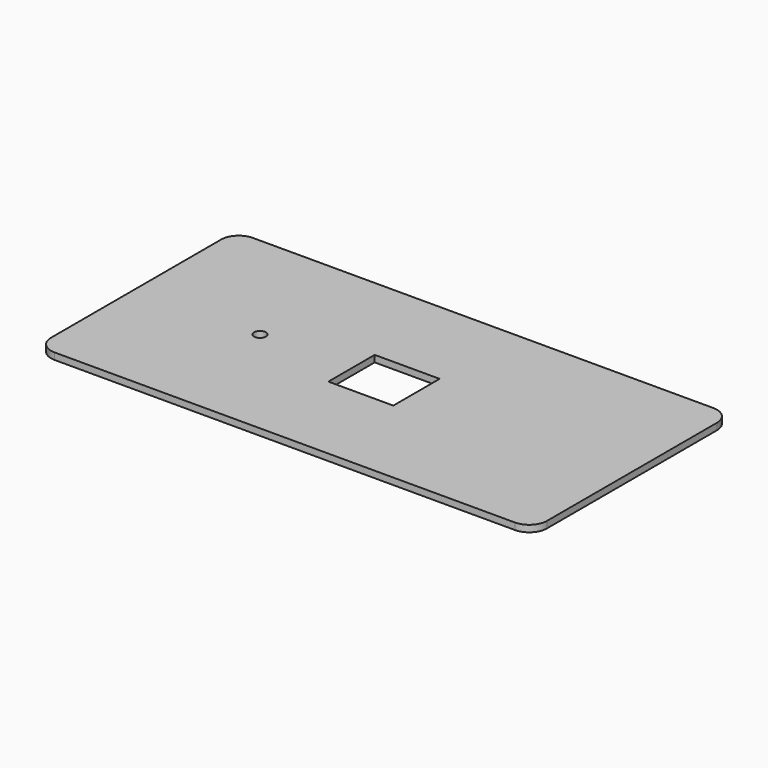
from build123d import *

# Parameters (mm, degrees)
F0_W     = 279.4
F0_H     = 249.174
F1_DEPTH = 28.575


with BuildPart() as f1:
    # F0 (on Top) → F1 (new body)
    with BuildSketch(Plane.XY):
        with BuildLine():
            Line((990.6, 533.4), (-990.6, 533.4))
            ThreePointArc((-990.6, 533.4), (-1044.481537, 511.081537), (-1066.8, 457.2))
            Line((-1066.8, 457.2), (-1066.8, 0))
            Line((-1066.8, 0), (-1066.8, -457.2))
            ThreePointArc((-1066.8, -457.2), (-1044.481537, -511.081537), (-990.6, -533.4))
            Line((-990.6, -533.4), (990.6, -533.4))
            ThreePointArc((990.6, -533.4), (1044.481537, -511.081537), (1066.8, -457.2))
            Line((1066.8, -457.2), (1066.8, 457.2))
            ThreePointArc((1066.8, 457.2), (1044.481537, 511.081537), (990.6, 533.4))
        make_face()
        with BuildLine():
            ThreePointArc((-508, 0), (-533.4, -25.4), (-558.8, 0))
            ThreePointArc((-558.8, 0), (-533.4, 25.4), (-508, 0))
        make_face(mode=Mode.SUBTRACT)
        Rectangle(F0_W, F0_H, mode=Mode.SUBTRACT)
    extrude(amount=F1_DEPTH)


solid = f1.part
